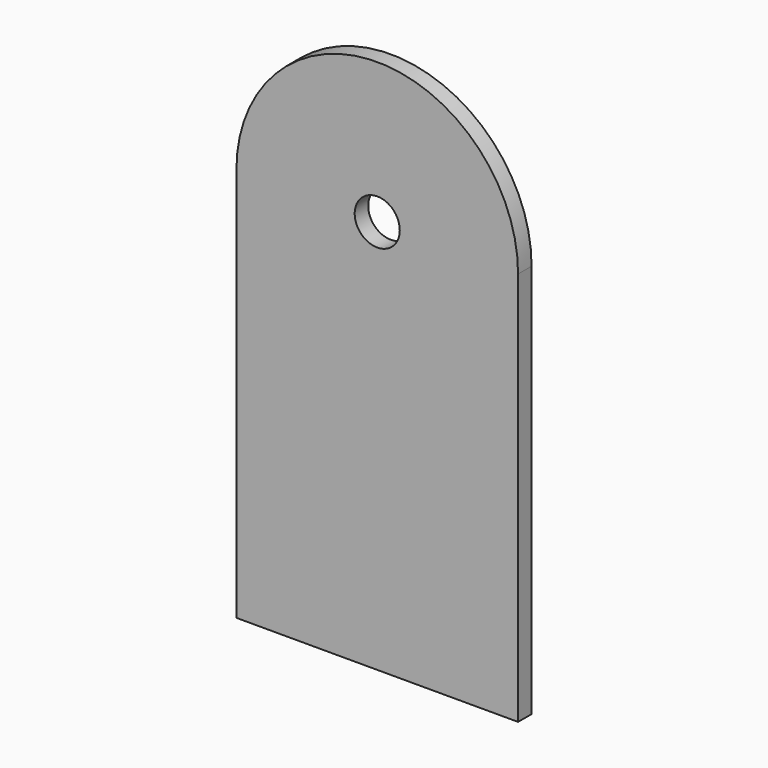
from build123d import *

# Parameters (mm, degrees)
F0_R     = 8
F1_DEPTH = 6


with BuildPart() as f1:
    # F0 (on Front) → F1 (new body)
    with BuildSketch(Plane.XZ):
        with BuildLine():
            ThreePointArc((50, 0), (0, 50), (-50, 0))
            Line((-50, 0), (-50, -140))
            Line((-50, -140), (50, -140))
            Line((50, -140), (50, 0))
        make_face()
        Circle(F0_R, mode=Mode.SUBTRACT)
    extrude(amount=F1_DEPTH)


solid = f1.part
